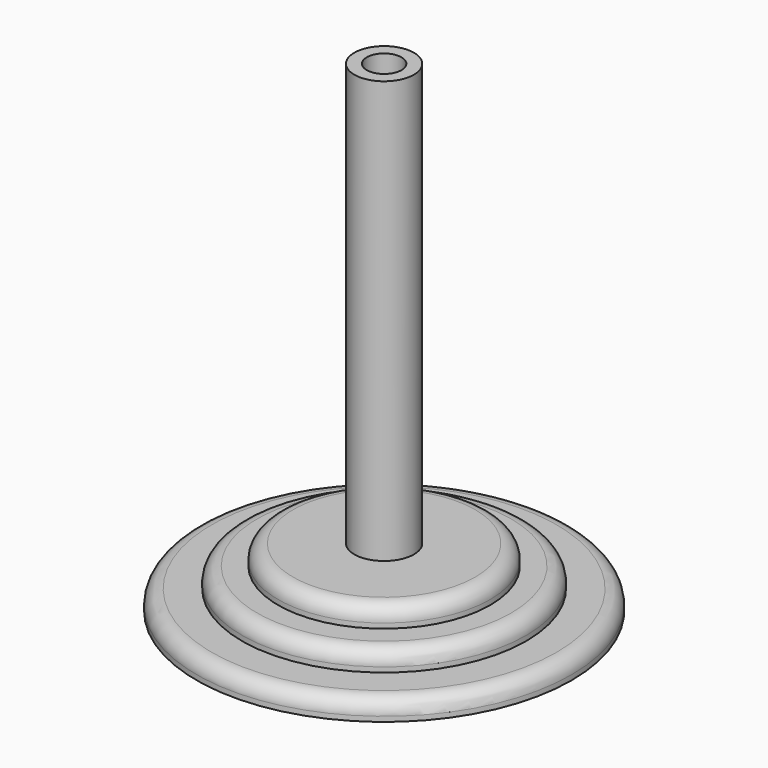
from build123d import *

# Parameters (mm, degrees)
FILLET_R = 3


with BuildPart() as part:
    # Sketch → Revolution (revolve)
    with BuildSketch(Plane(origin=(7, 0, 0), x_dir=(1, 0, 0), z_dir=(0, -1, 0))):
        Polygon((37.732979, -7.91416), (37.732979, -3.91416), (28.608906, -3.91416), (28.608906, 0.08584), (21.351952, 0.08584), (21.351952, 4.08584), (6, 4.08584), (6, 89.08584), (3.5, 89.08584), (3.5, -7.91416), align=None)
    revolve(axis=Axis((7, 0, 0), (0, 0, 1)))

    # Fillet
    fillet_edges = [part.edges().sort_by_distance(p)[0] for p in [
        (-14.351952, 0, 4.08584),
        (-21.608906, 0, 0.08584),
        (-30.732979, 0, -3.91416),
    ]]
    fillet(fillet_edges, radius=FILLET_R)


solid = part.part
